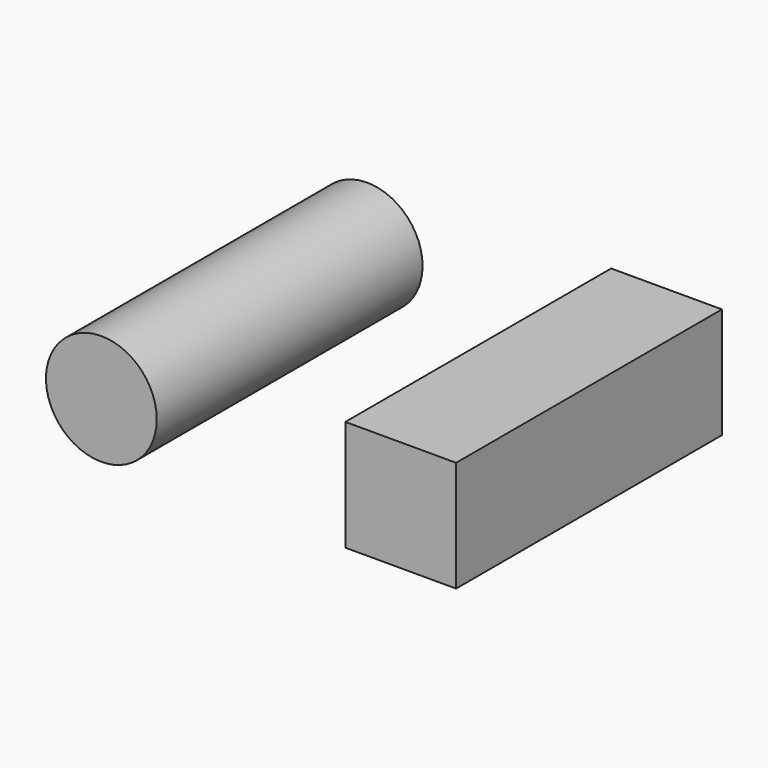
from build123d import *

# Parameters (mm, degrees)
F0_R     = 12.7
F0_W     = 25.4
F0_H     = 25.4
F1_DEPTH = 76.2


with BuildPart() as f1:
    # F0 (on Front) → F1 (new body)
    with BuildSketch(Plane.XZ):
        with Locations((-47.929619, 28.261289)):
            Circle(F0_R)
        with Locations((20.720096, 29.1221)):
            Rectangle(F0_W, F0_H)
    extrude(amount=F1_DEPTH)


solid = f1.part
